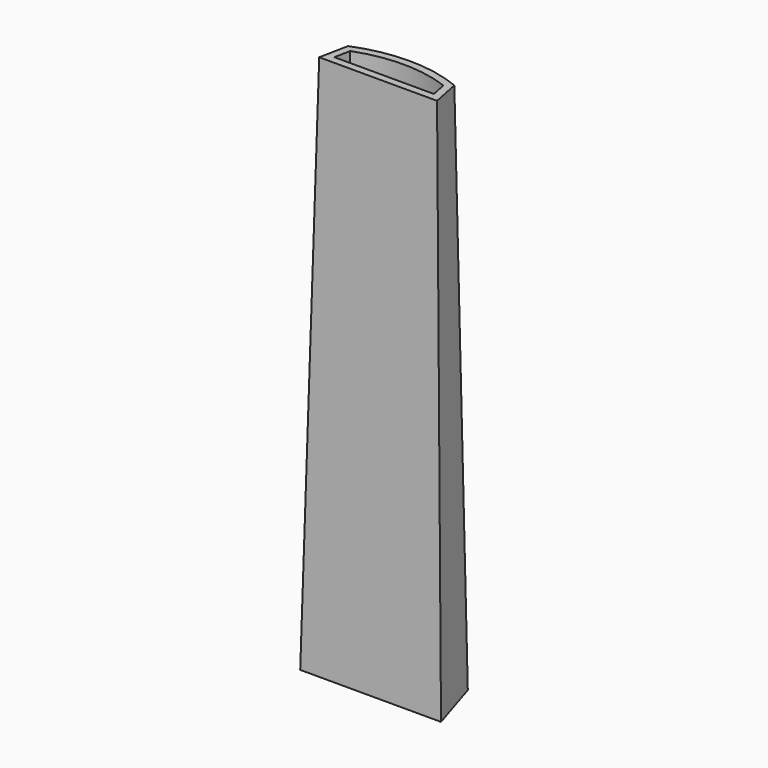
from build123d import *

# Parameters (mm, degrees)
F0_DEPTH = 180
F0_TAPER = 1
F2_DEPTH = 100
F4_T     = -2.5


with BuildPart() as f0:
    # F3 (on Top) → F0 (new body)
    with BuildSketch(Plane.XY):
        with BuildLine():
            Line((3, 15), (0, 0))
            Line((0, 0), (47, 0))
            Line((47, 0), (44, 15))
            ThreePointArc((44, 15), (23.5, 19.3957238847), (3, 15))
        make_face()
    extrude(amount=F0_DEPTH, taper=F0_TAPER)

    # F1 (on Right) → F2 (cut)
    with BuildSketch(Plane.YZ):
        Polygon((25.968901813, 3.9296671748), (0, 0), (-2.0501518156, -6.7397900857), (27.46424824, -6.7397900857), (27.54820722, -6.5070505478), align=None)
    extrude(amount=F2_DEPTH, mode=Mode.SUBTRACT)

    # F4
    f4_openings = [f0.faces().sort_by_distance(p)[0] for p in [
        (23.5, 8.769434, 1.327009),
        (23.5, 9.052127, 180),
    ]]
    offset(amount=F4_T, openings=f4_openings, kind=Kind.INTERSECTION)


solid = f0.part
